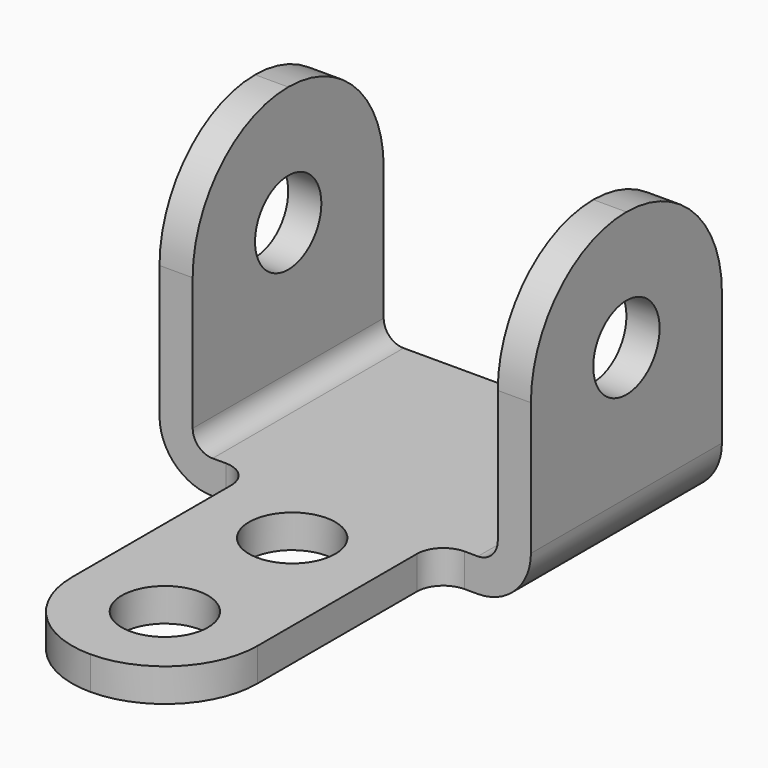
from build123d import *

# Parameters (mm, degrees)
F0_R     = 9.92251
F1_DEPTH = 44.45
F2_R     = 10.3251
F3_DEPTH = 7.9375
F4_W     = 73.025
F4_H     = 76.2
F5_DEPTH = 57.151
F6_R     = 6.35
F7_R     = 4.7625
F8_R     = 12.7


with BuildPart() as f1:
    # F0 (on Right) → F1 (new body, symmetric)
    with BuildSketch(Plane.YZ):
        with BuildLine():
            Line((0, 44.45), (0, 0))
            Line((0, 0), (57.15, 0))
            Line((57.15, 0), (57.15, 44.45))
            ThreePointArc((57.15, 44.45), (48.7805762724, 64.6555762724), (28.575, 73.025))
            ThreePointArc((28.575, 73.025), (8.3694237276, 64.6555762724), (0, 44.45))
        make_face()
        with Locations((28.575, 44.45)):
            Circle(F0_R, mode=Mode.SUBTRACT)
    extrude(amount=F1_DEPTH, both=True)

    # F2 (on Top) → F3 (join)
    with BuildSketch(Plane.XY):
        with BuildLine():
            Line((22.225, 57.15), (-22.225, 57.15))
            Line((-22.225, 57.15), (-22.225, -53.975))
            ThreePointArc((-22.225, -53.975), (-15.7154482119, -69.6904482119), (0, -76.2))
            ThreePointArc((0, -76.2), (15.7154482119, -69.6904482119), (22.225, -53.975))
            Line((22.225, -53.975), (22.225, 57.15))
        make_face()
        with Locations((0, -53.975)):
            Circle(F2_R, mode=Mode.SUBTRACT)
        with Locations((0, -15.875)):
            Circle(F2_R, mode=Mode.SUBTRACT)
    extrude(amount=F3_DEPTH)

    # F4 (on Front) → F5 (cut, through all)
    with BuildSketch(Plane.XZ):
        with Locations((0, 46.0375)):
            Rectangle(F4_W, F4_H)
    extrude(amount=-F5_DEPTH, mode=Mode.SUBTRACT)

    # F6
    f6_edges = [f1.edges().sort_by_distance(p)[0] for p in [
        (-22.225, 0, 3.96875),
        (22.225, 0, 3.96875),
    ]]
    fillet(f6_edges, radius=F6_R)

    # F7
    f7_edges = [f1.edges().sort_by_distance(p)[0] for p in [
        (-36.5125, 28.575, 7.9375),
        (36.5125, 28.575, 7.9375),
    ]]
    fillet(f7_edges, radius=F7_R)

    # F8
    f8_edges = [f1.edges().sort_by_distance(p)[0] for p in [
        (-44.45, 28.575, 0),
        (44.45, 28.575, 0),
    ]]
    fillet(f8_edges, radius=F8_R)


solid = f1.part
